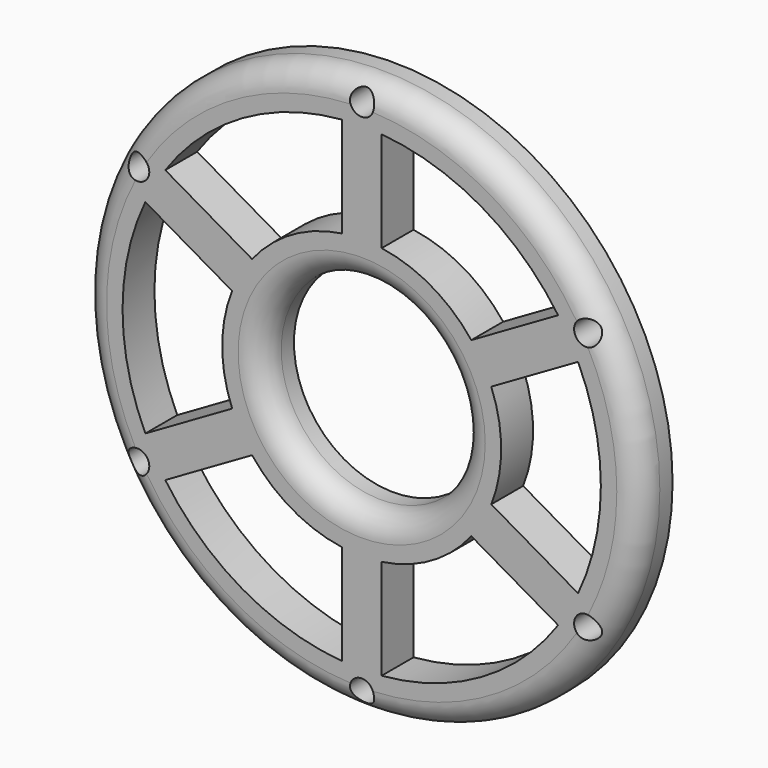
from build123d import *

# Parameters (mm, degrees)
F0_R     = 35
F0_R_2   = 12.5
F1_DEPTH = 5
F2_R     = 3
F3_D     = 3


with BuildPart() as f1:
    # F0 (on Front) → F1 (new body)
    with BuildSketch(Plane.XZ):
        Circle(F0_R)
        with BuildLine():
            Line((-24.640394, -17.112889), (-13.75, -10.825318))
            ThreePointArc((-13.75, -10.825318), (-8.75, -15.155445), (-2.5, -17.320508))
            Line((-2.5, -17.320508), (-2.5, -29.895652))
            ThreePointArc((-2.5, -29.895652), (-15, -25.980762), (-24.640394, -17.112889))
        make_face(mode=Mode.SUBTRACT)
        with BuildLine():
            Line((2.5, -29.895652), (2.5, -17.320508))
            ThreePointArc((2.5, -17.320508), (8.75, -15.155445), (13.75, -10.825318))
            Line((13.75, -10.825318), (24.640394, -17.112889))
            ThreePointArc((24.640394, -17.112889), (15, -25.980762), (2.5, -29.895652))
        make_face(mode=Mode.SUBTRACT)
        with BuildLine():
            Line((27.140394, -12.782762), (16.25, -6.495191))
            ThreePointArc((16.25, -6.495191), (17.5, 0), (16.25, 6.495191))
            Line((16.25, 6.495191), (27.140394, 12.782762))
            ThreePointArc((27.140394, 12.782762), (30, 0), (27.140394, -12.782762))
        make_face(mode=Mode.SUBTRACT)
        with BuildLine():
            ThreePointArc((-27.140394, -12.782762), (-30, 0), (-27.140394, 12.782762))
            Line((-27.140394, 12.782762), (-16.25, 6.495191))
            ThreePointArc((-16.25, 6.495191), (-17.5, 0), (-16.25, -6.495191))
            Line((-16.25, -6.495191), (-27.140394, -12.782762))
        make_face(mode=Mode.SUBTRACT)
        with BuildLine():
            Line((-2.5, 29.895652), (-2.5, 17.320508))
            ThreePointArc((-2.5, 17.320508), (-8.75, 15.155445), (-13.75, 10.825318))
            Line((-13.75, 10.825318), (-24.640394, 17.112889))
            ThreePointArc((-24.640394, 17.112889), (-15, 25.980762), (-2.5, 29.895652))
        make_face(mode=Mode.SUBTRACT)
        Circle(F0_R_2, mode=Mode.SUBTRACT)
        with BuildLine():
            ThreePointArc((13.75, 10.825318), (8.75, 15.155445), (2.5, 17.320508))
            Line((2.5, 17.320508), (2.5, 29.895652))
            ThreePointArc((2.5, 29.895652), (15, 25.980762), (24.640394, 17.112889))
            Line((24.640394, 17.112889), (13.75, 10.825318))
        make_face(mode=Mode.SUBTRACT)
    extrude(amount=F1_DEPTH)

    # F2
    f2_edges = [f1.edges().sort_by_distance(p)[0] for p in [
        (-35, -5, 0),
        (-12.5, -5, 0),
    ]]
    fillet(f2_edges, radius=F2_R)

    # F3 (through all)
    with Locations(Plane(origin=(0, 0, 0), x_dir=(1, 0, 0), z_dir=(0, 1, 0))):
        with Locations((-28.145826, -16.25), (-28.145826, 16.25), (0, 32.5), (28.145826, 16.25), (28.145826, -16.25), (0, -32.5)):
            Hole(F3_D / 2)


solid = f1.part
